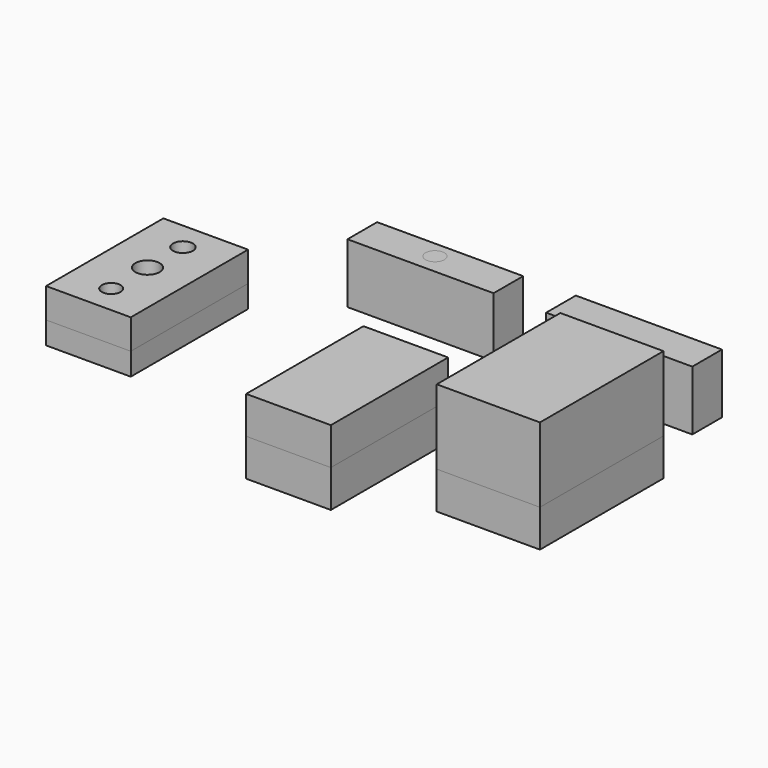
from build123d import *

# Parameters (mm, degrees)
F0_W     = 69.0940581262
F0_H     = 103.4028343856
F0_R     = 6.8267575368
F0_R_2   = 7.4204250621
F0_R_3   = 8.7248380927
F1_DEPTH = 50
F2_DEPTH = 25
F3_W     = 56.7047856748
F3_H     = 98.1612205505
F3_R     = 6.2741838457
F3_R_2   = 8.1539291884
F3_R_3   = 6.6754039926
F4_DEPTH = 25
F5_DEPTH = 25
F6_DEPTH = 15
F7_DEPTH = 20
F3_W_2   = 97.8302806616
F3_H_2   = 24.796500802
F8_DEPTH = 40
F0_R_4   = 6.3300792134
F9_DEPTH = 40


with BuildPart() as f1:
    # F0 (on Top) → F1 (new body)
    with BuildSketch(Plane.XY):
        with Locations((70.1662097126, -2.0251777023)):
            Rectangle(F0_W, F0_H)
        with Locations((70.1662097126, -29.9010574818)):
            Circle(F0_R, mode=Mode.SUBTRACT)
        with Locations((70.1662097126, -2.0251777023)):
            Circle(F0_R_2, mode=Mode.SUBTRACT)
        with Locations((70.1662097126, 25.3741908818)):
            Circle(F0_R_3, mode=Mode.SUBTRACT)
        with Locations((70.1662097126, 25.3741908818)):
            Circle(F0_R_3)
        with Locations((70.1662097126, -2.0251777023)):
            Circle(F0_R_2)
        with Locations((70.1662097126, -29.9010574818)):
            Circle(F0_R)
    extrude(amount=F1_DEPTH)


with BuildPart() as f2:
    # F0 (on Top) → F2 (new body)
    with BuildSketch(Plane.XY):
        with Locations((70.1662097126, -2.0251777023)):
            Rectangle(F0_W, F0_H)
        with Locations((70.1662097126, -29.9010574818)):
            Circle(F0_R, mode=Mode.SUBTRACT)
        with Locations((70.1662097126, -2.0251777023)):
            Circle(F0_R_2, mode=Mode.SUBTRACT)
        with Locations((70.1662097126, 25.3741908818)):
            Circle(F0_R_3, mode=Mode.SUBTRACT)
    extrude(amount=-F2_DEPTH)


with BuildPart() as f4:
    # F3 (on Top) → F4 (new body)
    with BuildSketch(Plane.XY):
        with Locations((-67.0688915998, -0.3573894501)):
            Rectangle(F3_W, F3_H)
        with Locations((-67.0688915998, -30.3775668144)):
            Circle(F3_R, mode=Mode.SUBTRACT)
        with Locations((-67.0688915998, 0)):
            Circle(F3_R_2, mode=Mode.SUBTRACT)
        with Locations((-67.0688915998, 29.6627879143)):
            Circle(F3_R_3, mode=Mode.SUBTRACT)
        with Locations((-67.0688915998, 0)):
            Circle(F3_R_2)
        with Locations((-67.0688915998, 29.6627879143)):
            Circle(F3_R_3)
        with Locations((-67.0688915998, -30.3775668144)):
            Circle(F3_R)
    extrude(amount=-F4_DEPTH)


with BuildPart() as f5:
    # F5 (new): a face of the model
    f5_faces = [f4.part.faces().sort_by_distance(p)[0] for p in [
        (-67.0688915998, -0.3573894501, -25),
    ]]
    extrude(f5_faces, amount=F5_DEPTH)


with BuildPart() as f6:
    # F3 (on Top) → F6 (new body)
    with BuildSketch(Plane.XY):
        with Locations((-201.0361980647, -0.3573894501)):
            Rectangle(F3_W, F3_H)
        with Locations((-201.0361980647, -30.3775668144)):
            Circle(F3_R, mode=Mode.SUBTRACT)
        with Locations((-201.0361980647, 0)):
            Circle(F3_R_2, mode=Mode.SUBTRACT)
        with Locations((-201.0361980647, 29.6627879143)):
            Circle(F3_R_3, mode=Mode.SUBTRACT)
    extrude(amount=-F6_DEPTH)


with BuildPart() as f7:
    # F3 (on Top) → F7 (new body)
    with BuildSketch(Plane.XY):
        with Locations((-201.0361980647, -0.3573894501)):
            Rectangle(F3_W, F3_H)
        with Locations((-201.0361980647, -30.3775668144)):
            Circle(F3_R, mode=Mode.SUBTRACT)
        with Locations((-201.0361980647, 0)):
            Circle(F3_R_2, mode=Mode.SUBTRACT)
        with Locations((-201.0361980647, 29.6627879143)):
            Circle(F3_R_3, mode=Mode.SUBTRACT)
    extrude(amount=F7_DEPTH)


with BuildPart() as f8:
    # F3 (on Top) → F8 (new body)
    with BuildSketch(Plane.XY):
        with Locations((-66.5278732777, 72.7688670158)):
            Rectangle(F3_W_2, F3_H_2)
    extrude(amount=F8_DEPTH)


with BuildPart() as f8b:
    # F0 (on Top) → F8, piece 2 (new body)
    with BuildSketch(Plane.XY):
        with Locations((-67.7015483379, 73.9150568843)):
            Circle(F0_R_4)
    extrude(amount=F8_DEPTH)


with BuildPart() as f9:
    # F3 (on Top) → F9 (new body)
    with BuildSketch(Plane.XY):
        with Locations((66.5278732777, 72.7688670158)):
            Rectangle(F3_W_2, F3_H_2)
    extrude(amount=F9_DEPTH)


solid = Compound([f1.part, f2.part, f4.part, f5.part, f6.part, f7.part, f8.part, f8b.part, f9.part])
